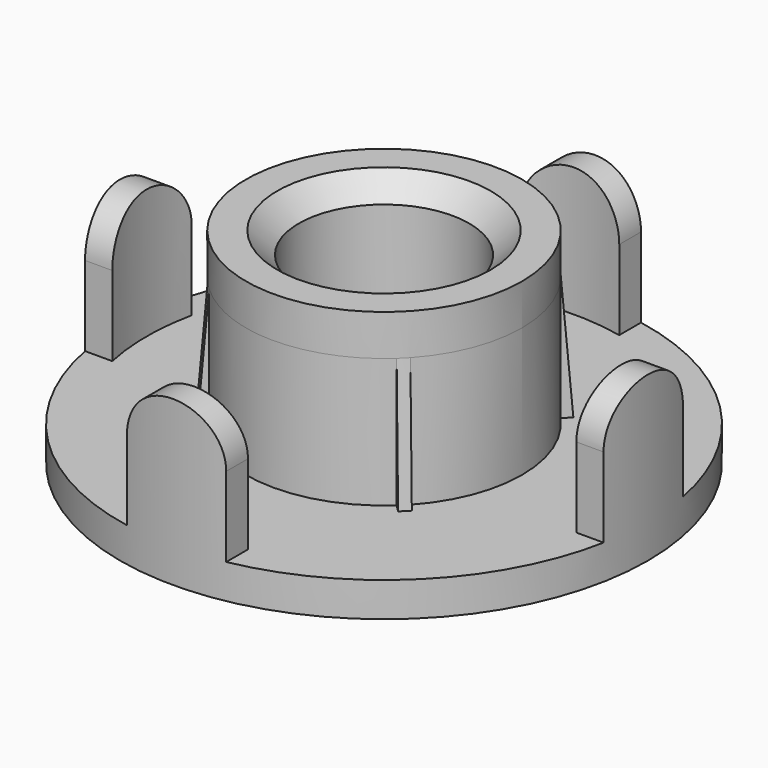
from build123d import *

# Parameters (mm, degrees)
SKETCH_R           = 12.45
PAD_DEPTH          = 1.6
SKETCH001_R        = 6.4
PAD001_DEPTH       = 7.9
PAD002_DEPTH       = 14
POLARPATTERN_COUNT = 4
POCKET_DEPTH       = 10
SKETCH004_W        = 4
SKETCH004_H        = 10
SKETCH005_R        = 3.95
POCKET001_DEPTH    = 9.501
CHAMFER_SIZE       = 1


with BuildPart() as part:
    # Sketch → Pad (new body)
    with BuildSketch(Plane.XY):
        Circle(SKETCH_R)
    extrude(amount=PAD_DEPTH)

    # Sketch001 (on Face3 of Pad) → Pad001 (join)
    with BuildSketch(Plane.XY.offset(1.6)):
        Circle(SKETCH001_R)
    extrude(amount=PAD001_DEPTH)

    # Sketch002 → Pad002 (join)
    with BuildSketch(Plane.XZ):
        with BuildLine():
            Line((-2.3, 0), (-2.3, 5.3))
            ThreePointArc((2.3, 5.3), (0, 7.6), (-2.3, 5.3))
            Line((2.3, 0), (2.3, 5.3))
            Line((-2.3, 0), (2.3, 0))
        make_face()
    pad002 = extrude(amount=PAD002_DEPTH)

    # PolarPattern: Pad002 ×4 about axis
    polarpattern_axis = Axis((0, 0, 0), (0, 0, 1))
    for i in range(1, POLARPATTERN_COUNT):
        add(pad002.rotate(polarpattern_axis, i * 360 / POLARPATTERN_COUNT))

    # Sketch006 → Revolution (revolve)
    with BuildSketch(Plane.XZ):
        Polygon((0, 0), (0, 7.6), (6.4, 7.6), (7, 0), align=None)
    revolve(axis=Axis((0, 0, 0), (0, 0, 1)))

    # Sketch007 (on Face28 of Revolution) → Pocket (cut)
    with BuildSketch(Plane.XY.offset(1.6)):
        with BuildLine():
            ThreePointArc((-7.952942, 7.599389), (-11, 0), (-7.952942, -7.599389))
            Line((-7.952942, -7.599389), (-4.698806, -4.345253))
            ThreePointArc((-4.698806, 4.345253), (-6.4, 0), (-4.698806, -4.345253))
            Line((-7.952942, 7.599389), (-4.698806, 4.345253))
        make_face()
        with BuildLine():
            ThreePointArc((-7.599389, -7.952942), (0, -11), (7.599389, -7.952942))
            Line((7.599389, -7.952942), (4.345253, -4.698806))
            ThreePointArc((-4.345253, -4.698806), (0, -6.4), (4.345253, -4.698806))
            Line((-7.599389, -7.952942), (-4.345253, -4.698806))
        make_face()
        with BuildLine():
            ThreePointArc((7.952942, -7.599389), (11, 0), (7.952942, 7.599389))
            Line((7.952942, 7.599389), (4.698806, 4.345253))
            ThreePointArc((4.698806, -4.345253), (6.4, 0), (4.698806, 4.345253))
            Line((7.952942, -7.599389), (4.698806, -4.345253))
        make_face()
        with BuildLine():
            ThreePointArc((7.599389, 7.952942), (0, 11), (-7.599389, 7.952942))
            Line((-7.599389, 7.952942), (-4.345253, 4.698806))
            ThreePointArc((4.345253, 4.698806), (0, 6.4), (-4.345253, 4.698806))
            Line((7.599389, 7.952942), (4.345253, 4.698806))
        make_face()
    extrude(amount=POCKET_DEPTH, mode=Mode.SUBTRACT)

    # Sketch004 → Groove (revolve, cut)
    with BuildSketch(Plane.XZ):
        with Locations((-14.235706, 5)):
            Rectangle(SKETCH004_W, SKETCH004_H)
    revolve(axis=Axis((0, 0, 0), (0, 0, 1)), mode=Mode.SUBTRACT)

    # Sketch005 (on Face73 of Groove) → Pocket001 (cut, through all)
    with BuildSketch(Plane.XY.offset(9.5)):
        Circle(SKETCH005_R)
    extrude(amount=-POCKET001_DEPTH, mode=Mode.SUBTRACT)

    # Chamfer
    chamfer_edges = [part.edges().sort_by_distance(p)[0] for p in [
        (-3.95, 0, 9.5),
        (0, -3.95, 0),
    ]]
    chamfer(chamfer_edges, length=CHAMFER_SIZE)


solid = part.part
